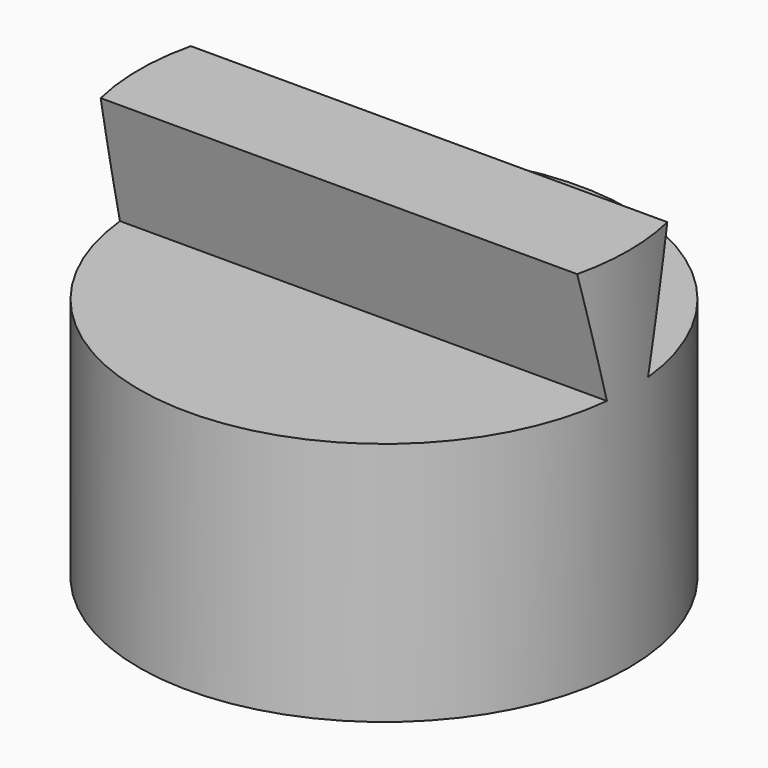
from build123d import *

# Parameters (mm, degrees)
BOX_W           = 20
BOX_H           = 5
BOX_DEPTH       = 5
CYLINDER_R      = 10
CYLINDER_DEPTH  = 8
POCKET_DEPTH    = 6
SKETCH001_R     = 10
PAD_DEPTH       = 2
SKETCH002_R     = 3.4
POCKET001_DEPTH = 2
POCKET002_DEPTH = 20.001
SKETCH004_R     = 15
SKETCH004_R_2   = 10
POCKET003_DEPTH = 15.001


with BuildPart() as attachpart:
    # Box → Box (new body)
    with BuildSketch(Plane(origin=(-10, -2.5, 10), x_dir=(1, 0, 0), z_dir=(0, 0, 1))):
        with Locations((10, 2.5)):
            Rectangle(BOX_W, BOX_H)
    extrude(amount=BOX_DEPTH)


with BuildPart() as attachbody:
    # Cylinder → Cylinder (new body)
    with BuildSketch(Plane.XY):
        Circle(CYLINDER_R)
    extrude(amount=CYLINDER_DEPTH)

    # Sketch (on Face2 of BaseFeature) → Pocket (cut)
    with BuildSketch(Plane.XY.offset(8)):
        Polygon((3.45, -5.975575), (6.9, 0), (3.45, 5.975575), (-3.45, 5.975575), (-6.9, 0), (-3.45, -5.975575), align=None)
    extrude(amount=-POCKET_DEPTH, mode=Mode.SUBTRACT)

    # Sketch001 (on Face2 of Pocket) → Pad (join)
    with BuildSketch(Plane.XY.offset(8)):
        Circle(SKETCH001_R)
    extrude(amount=PAD_DEPTH)

    # Sketch002 (on Face3 of Pad) → Pocket001 (cut)
    with BuildSketch(Plane(origin=(0, 0, 0), x_dir=(1, 0, 0), z_dir=(0, 0, -1))):
        Circle(SKETCH002_R)
    extrude(amount=-POCKET001_DEPTH, mode=Mode.SUBTRACT)

    # Fusion: union AttachPart
    add(attachpart.part)

    # Sketch003 (on Face11 of BaseFeature001) → Pocket002 (cut, through all)
    with BuildSketch(Plane.YZ.offset(10)):
        Polygon((2.3, 15), (2.5, 15), (2.5, 10), (1.05, 10), align=None)
        Polygon((-2.5, 15), (-2.3, 15), (-1.05, 10), (-2.5, 10), align=None)
    extrude(amount=-POCKET002_DEPTH, mode=Mode.SUBTRACT)

    # Sketch004 (on Face3 of Pocket002) → Pocket003 (cut, through all)
    with BuildSketch(Plane(origin=(0, 0, 0), x_dir=(1, 0, 0), z_dir=(0, 0, -1))):
        Circle(SKETCH004_R)
        Circle(SKETCH004_R_2, mode=Mode.SUBTRACT)
    extrude(amount=-POCKET003_DEPTH, mode=Mode.SUBTRACT)


solid = attachbody.part
